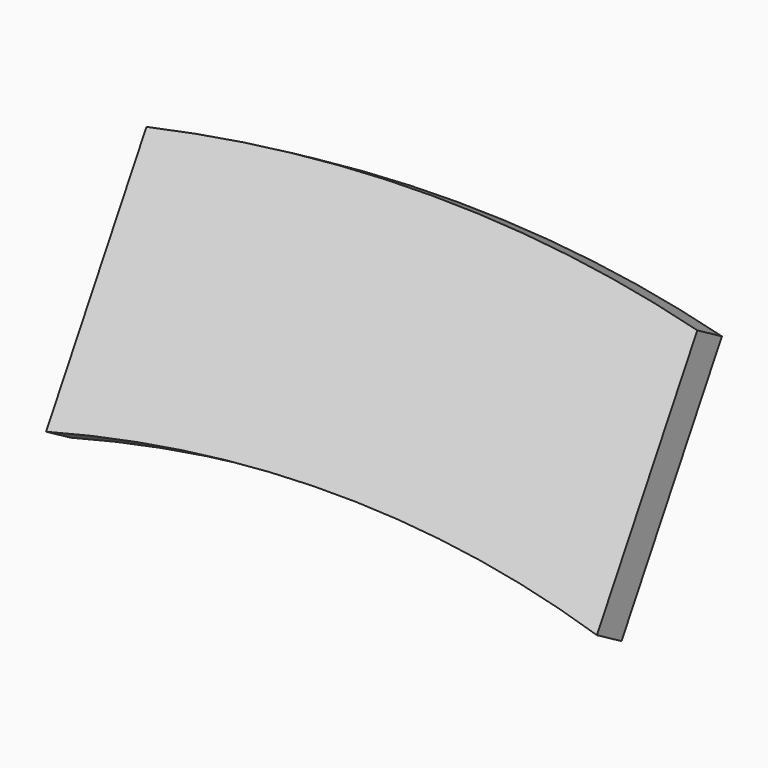
from build123d import *

# Parameters (mm, degrees)
F1_DEPTH = 2
F2_ANGLE = -30


with BuildPart() as f1:
    # F0 (on Front) → F1 (new body)
    with BuildSketch(Plane.XZ):
        with BuildLine():
            Line((15.5, 64.3598477313), (15.5, 78.4840748178))
            ThreePointArc((15.5, 78.4840748178), (0, 80), (-15.5, 78.4840748178))
            Line((-15.5, 78.4840748178), (-15.5, 64.3598477313))
            ThreePointArc((-15.5, 64.3598477313), (0, 66.2), (15.5, 64.3598477313))
        make_face()
    extrude(amount=F1_DEPTH)


with BuildPart() as f1_1:
    # F2: moved
    add(f1.part.rotate(Axis((0.8731409907, 0, 0), (1, 0, 0)), F2_ANGLE))


solid = f1_1.part
